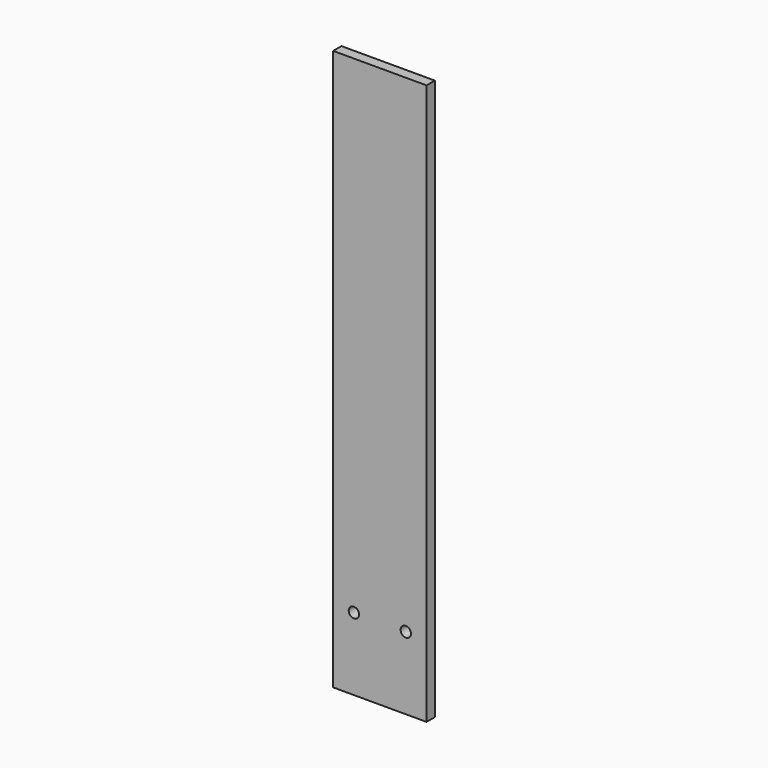
from build123d import *

# Parameters (mm, degrees)
F0_W     = 28.575
F0_H     = 171.45
F0_R     = 1.5875
F1_DEPTH = 1.5875


with BuildPart() as f1:
    # F0 (on Front) → F1 (new body, symmetric)
    with BuildSketch(Plane.XZ):
        Rectangle(F0_W, F0_H)
        with Locations((-7.9375, -63.5)):
            Circle(F0_R, mode=Mode.SUBTRACT)
        with Locations((7.9375, -63.5)):
            Circle(F0_R, mode=Mode.SUBTRACT)
    extrude(amount=F1_DEPTH, both=True)


solid = f1.part
